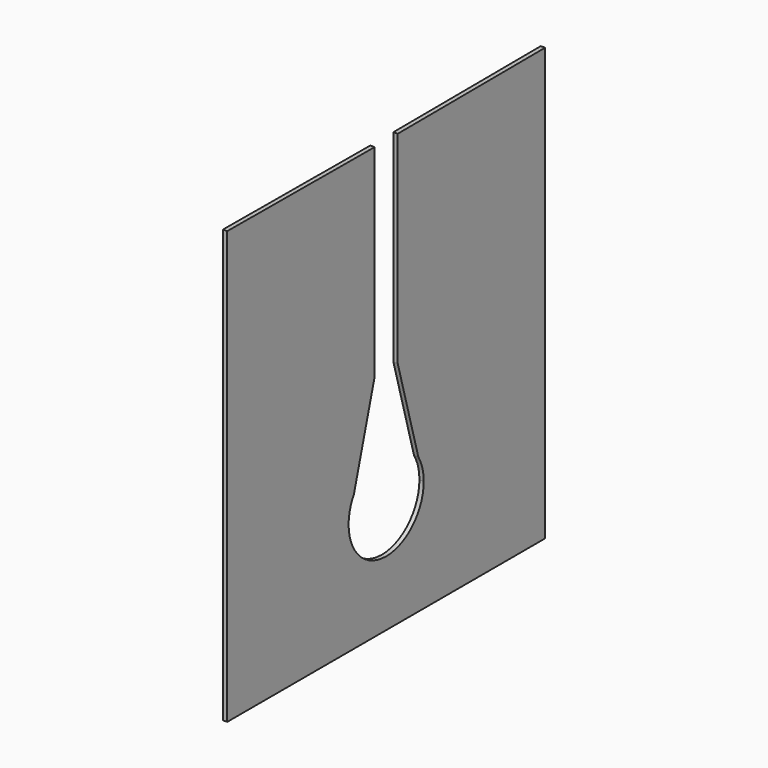
from build123d import *

# Parameters (mm, degrees)
F1_DEPTH = 6


with BuildPart() as f1:
    # F0 (on Right) → F1 (new body)
    with BuildSketch(Plane.YZ):
        with BuildLine():
            Line((0, 574.042232), (0, -23.957768))
            Line((0, -23.957768), (550, -23.957768))
            Line((550, -23.957768), (550, 574.042232))
            Line((550, 574.042232), (295, 572.804987))
            Line((295, 572.804987), (295, 292.804987))
            Line((295, 292.804987), (330.622028, 164.675401))
            ThreePointArc((330.622028, 164.675401), (337.624821, 148.452911), (339.999926, 130.943851))
            ThreePointArc((339.999926, 130.943851), (274.713963, 66.042861), (210.001726, 131.515923))
            ThreePointArc((210.001726, 131.515923), (212.390971, 148.509617), (219.144239, 164.285786))
            Line((219.144239, 164.285786), (255, 292.804987))
            Line((255, 292.804987), (255, 572.804987))
            Line((255, 572.804987), (0, 574.042232))
        make_face()
    extrude(amount=F1_DEPTH)


solid = f1.part
